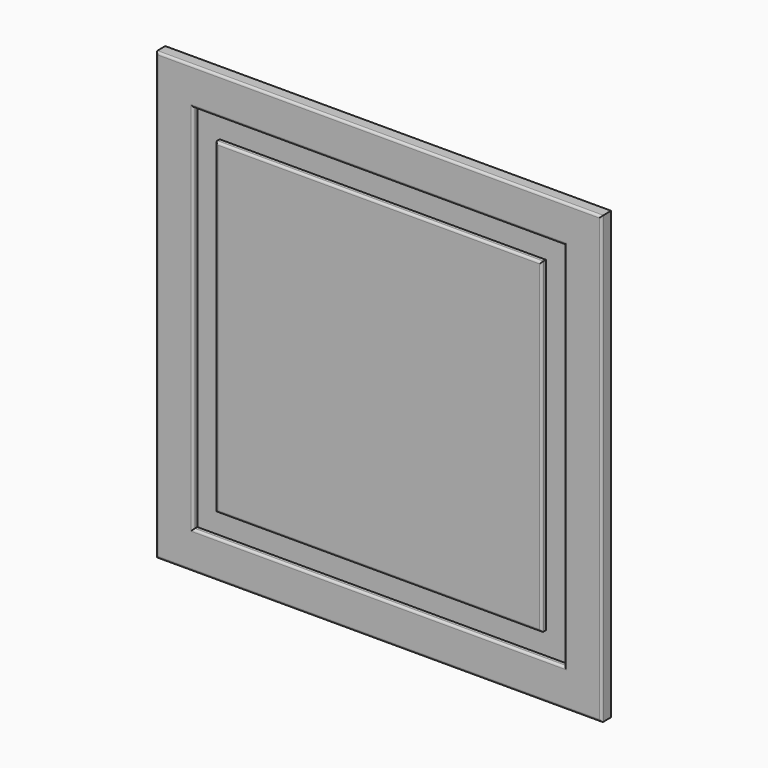
from build123d import *

# Parameters (mm, degrees)
F0_W      = 44.656470418
F0_H      = 33.8078811765
F1_DEPTH  = 16
F2_DEPTH  = 796
F3_DEPTH  = 196
F4_W      = 68.9578056335
F4_H      = 493.6993122101
F5_DEPTH  = 7
F6_DEPTH  = 9.7
F7_DEPTH  = 99.33
F8_DEPTH  = 99.33
F9_DEPTH  = 17.34
F10_DEPTH = 102.97
F11_W     = 35.2807044983
F11_H     = 492.0964837074
F12_DEPTH = 7
F13_DEPTH = 37.27
F14_DEPTH = 6.58
F15_DEPTH = 106.63
F16_DEPTH = 5.87
F17_DEPTH = 200
F18_DEPTH = 200
F19_DEPTH = 200
F20_DEPTH = 200
F21_DEPTH = 200
F22_DEPTH = 200
F23_DEPTH = 200
F24_DEPTH = 200
F25_DEPTH = 200
F26_R     = 3


with BuildPart() as f1:
    # F0 (on Front) → F1 (new body)
    with BuildSketch(Plane.XZ):
        with Locations((22.328235209, 16.9039405882)):
            Rectangle(F0_W, F0_H)
    extrude(amount=F1_DEPTH)

    # F2 (add): a face of the model
    f2_faces = [f1.faces().sort_by_distance(p)[0] for p in [
        (22.328235209, -8, 0),
    ]]
    extrude(f2_faces, amount=-F2_DEPTH)

    # F3 (add): a face of the model
    f3_faces = [f1.faces().sort_by_distance(p)[0] for p in [
        (0, -8, 398),
    ]]
    extrude(f3_faces, amount=-F3_DEPTH)

    # F4 (on face) → F5 (cut)
    with BuildSketch(Plane.XZ.offset(16)):
        with Locations((94.1769480705, 399.8196721077)):
            Rectangle(F4_W, F4_H)
    extrude(amount=-F5_DEPTH, mode=Mode.SUBTRACT)

    # F6 (cut): a face of the model
    f6_faces = [f1.faces().sort_by_distance(p)[0] for p in [
        (59.6980452538, -12.5, 399.8196721077),
    ]]
    extrude(f6_faces, amount=-F6_DEPTH, mode=Mode.SUBTRACT)

    # F7 (add): a face of the model
    f7_faces = [f1.faces().sort_by_distance(p)[0] for p in [
        (89.3269480705, -12.5, 646.6693282127),
    ]]
    extrude(f7_faces, amount=-F7_DEPTH)

    # F8 (cut): a face of the model
    f8_faces = [f1.faces().sort_by_distance(p)[0] for p in [
        (89.3269480705, -12.5, 646.6693282127),
    ]]
    extrude(f8_faces, amount=-F8_DEPTH, mode=Mode.SUBTRACT)

    # F9 (cut): a face of the model
    f9_faces = [f1.faces().sort_by_distance(p)[0] for p in [
        (128.6558508873, -12.5, 449.4846721077),
    ]]
    extrude(f9_faces, amount=-F9_DEPTH, mode=Mode.SUBTRACT)

    # F10 (cut): a face of the model
    f10_faces = [f1.faces().sort_by_distance(p)[0] for p in [
        (97.9969480705, -12.5, 152.9700160027),
    ]]
    extrude(f10_faces, amount=-F10_DEPTH, mode=Mode.SUBTRACT)

    # F11 (on face) → F12 (join)
    with BuildSketch(Plane.XZ.offset(9)):
        with Locations((91.7714834213, 432.6795041561)):
            Rectangle(F11_W, F11_H)
    extrude(amount=F12_DEPTH)

    # F13 (add): a face of the model
    f13_faces = [f1.faces().sort_by_distance(p)[0] for p in [
        (91.7714834213, -12.5, 678.7277460098),
    ]]
    extrude(f13_faces, amount=F13_DEPTH)

    # F14 (add): a face of the model
    f14_faces = [f1.faces().sort_by_distance(p)[0] for p in [
        (109.4118356705, -12.5, 451.3145041561),
    ]]
    extrude(f14_faces, amount=F14_DEPTH)

    # F15 (add): a face of the model
    f15_faces = [f1.faces().sort_by_distance(p)[0] for p in [
        (95.0614834213, -12.5, 186.6312623024),
    ]]
    extrude(f15_faces, amount=F15_DEPTH)

    # F16 (cut): a face of the model
    f16_faces = [f1.faces().sort_by_distance(p)[0] for p in [
        (74.1311311722, -12.5, 397.9995041561),
    ]]
    extrude(f16_faces, amount=-F16_DEPTH, mode=Mode.SUBTRACT)

    # F17 (add): a face of the model
    f17_faces = [f1.faces().sort_by_distance(p)[0] for p in [
        (196, -8, 398),
    ]]
    extrude(f17_faces, amount=F17_DEPTH)

    # F18 (cut): a face of the model
    f18_faces = [f1.faces().sort_by_distance(p)[0] for p in [
        (145.9958508873, -12.5, 397.9996721077),
    ]]
    extrude(f18_faces, amount=-F18_DEPTH, mode=Mode.SUBTRACT)

    # F19 (add): a face of the model
    f19_faces = [f1.faces().sort_by_distance(p)[0] for p in [
        (115.9918356705, -12.5, 397.9995041561),
    ]]
    extrude(f19_faces, amount=F19_DEPTH)

    # F20 (add): a face of the model
    f20_faces = [f1.faces().sort_by_distance(p)[0] for p in [
        (396, -8, 398),
    ]]
    extrude(f20_faces, amount=F20_DEPTH)

    # F21 (cut): a face of the model
    f21_faces = [f1.faces().sort_by_distance(p)[0] for p in [
        (345.9958508873, -12.5, 397.9996721077),
    ]]
    extrude(f21_faces, amount=-F21_DEPTH, mode=Mode.SUBTRACT)

    # F22 (add): a face of the model
    f22_faces = [f1.faces().sort_by_distance(p)[0] for p in [
        (315.9918356705, -12.5, 397.9995041561),
    ]]
    extrude(f22_faces, amount=F22_DEPTH)

    # F23 (cut): a face of the model
    f23_faces = [f1.faces().sort_by_distance(p)[0] for p in [
        (297.9964834213, -12.5, 715.9977460098),
    ]]
    extrude(f23_faces, amount=-F23_DEPTH, mode=Mode.SUBTRACT)

    # F24 (add): a face of the model
    f24_faces = [f1.faces().sort_by_distance(p)[0] for p in [
        (297.9969480705, -12.5, 745.9993282127),
    ]]
    extrude(f24_faces, amount=F24_DEPTH)

    # F25 (cut): a face of the model
    f25_faces = [f1.faces().sort_by_distance(p)[0] for p in [
        (298, -8, 796),
    ]]
    extrude(f25_faces, amount=-F25_DEPTH, mode=Mode.SUBTRACT)

    # F26
    f26_edges = [f1.edges().sort_by_distance(p)[0] for p in [
        (0, -16, 298),
        (298, -16, 596),
        (596, -16, 298),
        (298, -16, 0),
        (49.998045, -16, 297.999672),
        (297.996948, -16, 50.000016),
        (297.996948, -16, 545.999328),
        (545.995851, -16, 297.999672),
        (297.996483, -16, 515.997746),
        (515.991836, -16, 297.999504),
        (297.996483, -16, 80.001262),
        (80.001131, -16, 297.999504),
    ]]
    fillet(f26_edges, radius=F26_R)


solid = f1.part
